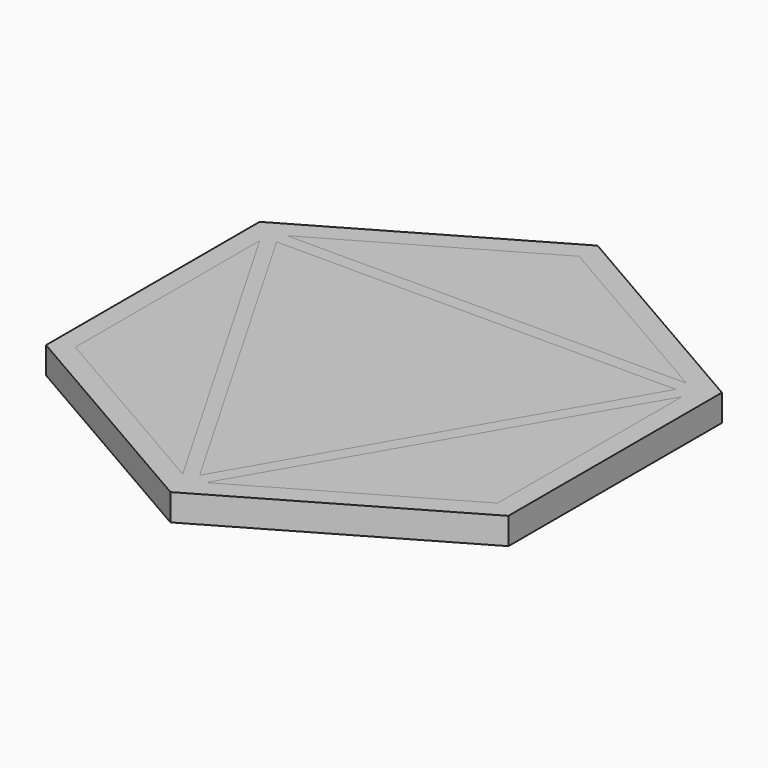
from build123d import *

# Parameters (mm, degrees)
F1_DEPTH = 4
F3_DEPTH = 4.001
F4_DEPTH = 4


with BuildPart() as f1:
    # F0 (on Top) → F1 (new body)
    with BuildSketch(Plane.XY):
        Polygon((34.641016, -20), (34.641016, 20), (0, 40), (-34.641016, 20), (-34.641016, -20), (0, -40), align=None)
    extrude(amount=F1_DEPTH)

    # F2 (on Top) → F3 (cut, through all)
    with BuildSketch(Plane.XY):
        Polygon((-34.641016, -20), (0, -40), (34.641016, -20), (34.641016, 20), (0, 40), (-34.641016, 20), align=None)
        Polygon((-1.732051, -35.535898), (-31.641016, -18.267949), (-31.641016, 16.267949), align=None, mode=Mode.SUBTRACT)
        Polygon((0, -34.535898), (-29.908965, 17.267949), (29.908965, 17.267949), align=None, mode=Mode.SUBTRACT)
        Polygon((31.641016, 16.267949), (31.641016, -18.267949), (1.732051, -35.535898), align=None, mode=Mode.SUBTRACT)
        Polygon((29.908965, 19.267949), (-29.908965, 19.267949), (0, 36.535898), align=None, mode=Mode.SUBTRACT)
    extrude(amount=F3_DEPTH, mode=Mode.SUBTRACT)


with BuildPart() as f4:
    # F2 (on Top) → F4 (new body)
    with BuildSketch(Plane.XY):
        Polygon((-34.641016, -20), (0, -40), (34.641016, -20), (34.641016, 20), (0, 40), (-34.641016, 20), align=None)
        Polygon((-1.732051, -35.535898), (-31.641016, -18.267949), (-31.641016, 16.267949), align=None, mode=Mode.SUBTRACT)
        Polygon((0, -34.535898), (-29.908965, 17.267949), (29.908965, 17.267949), align=None, mode=Mode.SUBTRACT)
        Polygon((31.641016, 16.267949), (31.641016, -18.267949), (1.732051, -35.535898), align=None, mode=Mode.SUBTRACT)
        Polygon((29.908965, 19.267949), (-29.908965, 19.267949), (0, 36.535898), align=None, mode=Mode.SUBTRACT)
    extrude(amount=F4_DEPTH)


solid = Compound([f1.part, f4.part])
